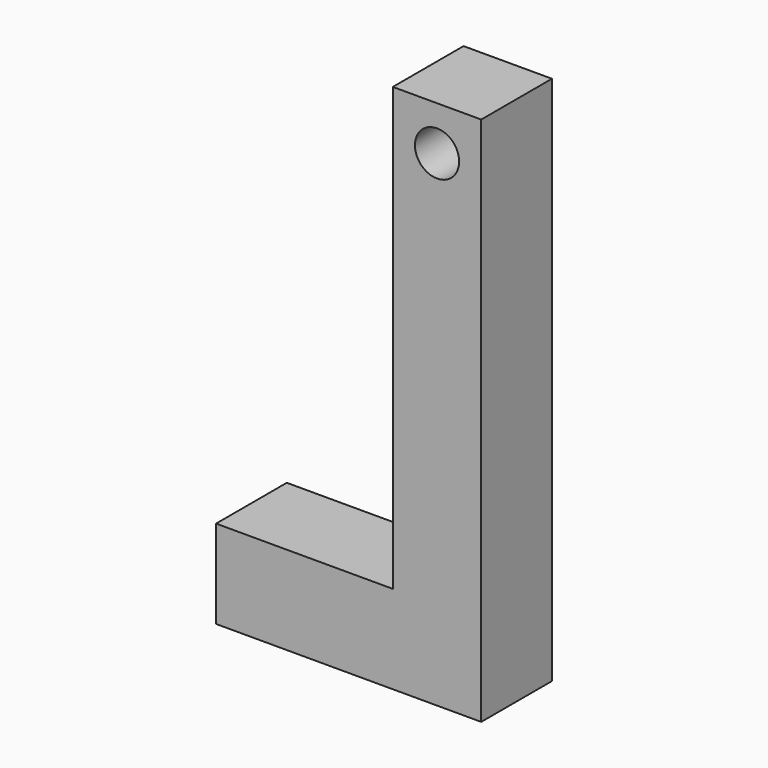
from build123d import *

# Parameters (mm, degrees)
F0_W     = 10
F0_H     = 50
F1_DEPTH = 10
F2_R     = 2.5
F3_DEPTH = 10


with BuildPart() as f1:
    # F0 (on Front) → F1 (new body)
    with BuildSketch(Plane.XZ):
        Rectangle(F0_W, F0_H)
        Polygon((5, -35), (5, -25), (-5, -25), (-25, -25), (-25, -35), align=None)
    extrude(amount=F1_DEPTH)

    # F2 (on face) → F3 (cut, through all)
    with BuildSketch(Plane.XZ.offset(10)):
        with Locations((0, 20)):
            Circle(F2_R)
    extrude(amount=-F3_DEPTH, mode=Mode.SUBTRACT)


solid = f1.part
